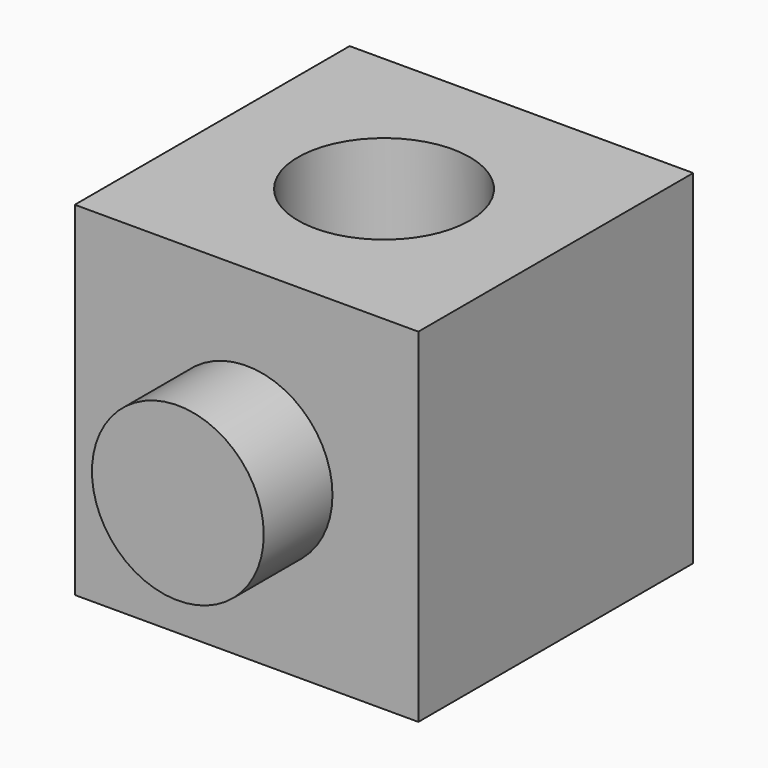
from build123d import *

# Parameters (mm, degrees)
F0_W     = 50.8
F0_H     = 50.8
F1_DEPTH = 50.8
F2_R     = 12.7
F3_DEPTH = 12.7
F4_R     = 12.7
F5_DEPTH = 50.8


with BuildPart() as f1:
    # F0 (on Front) → F1 (new body)
    with BuildSketch(Plane.XZ):
        with Locations((-6.564537, 3.794339)):
            Rectangle(F0_W, F0_H)
    extrude(amount=F1_DEPTH)

    # F2 (on face) → F3 (join)
    with BuildSketch(Plane.XZ.offset(50.8)):
        with Locations((-6.564537, 3.794339)):
            Circle(F2_R)
    extrude(amount=F3_DEPTH)

    # F4 (on face) → F5 (cut)
    with BuildSketch(Plane.XY.offset(29.194339)):
        with Locations((-6.564537, -25.4)):
            Circle(F4_R)
    extrude(amount=-F5_DEPTH, mode=Mode.SUBTRACT)


solid = f1.part
